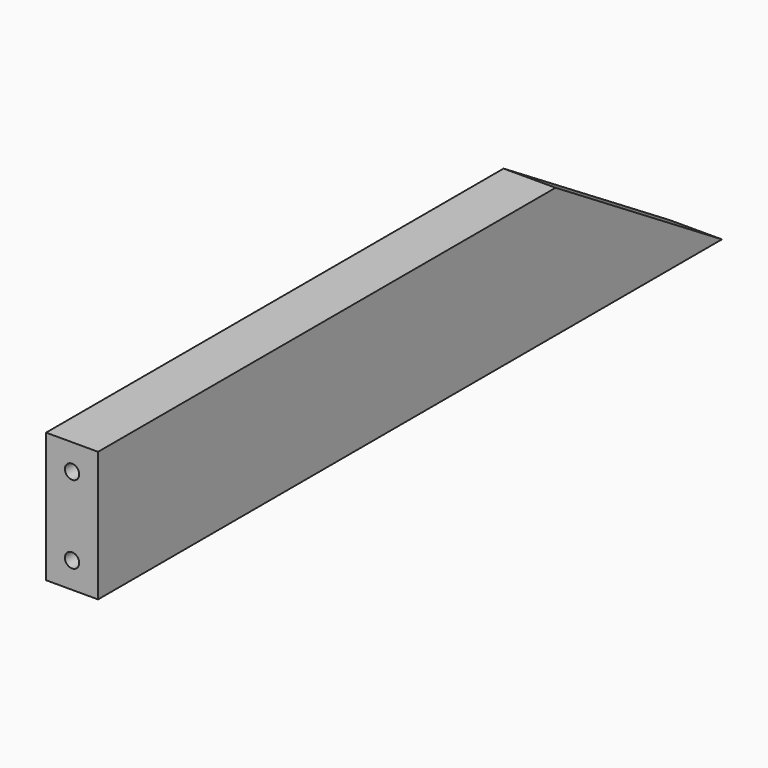
from build123d import *

# Parameters (mm, degrees)
F0_W     = 190.5
F0_H     = 31.75
F1_DEPTH = 12.7
F3_DEPTH = 25.4
F4_R     = 1.75
F5_DEPTH = 12.7
F6_W     = 113.973523
F6_H     = 19.05
F7_DEPTH = 6.35
F8_R     = 3.175


with BuildPart() as f1:
    # F0 (on Right) → F1 (new body)
    with BuildSketch(Plane.YZ):
        with Locations((95.25, 15.875)):
            Rectangle(F0_W, F0_H)
    extrude(amount=F1_DEPTH)

    # F2 (on face) → F3 (cut)
    with BuildSketch(Plane.YZ.offset(12.7)):
        Polygon((139.7, 31.75), (190.5, 0), (190.5, 31.75), align=None)
    extrude(amount=-F3_DEPTH, mode=Mode.SUBTRACT)

    # F4 (on face) → F5 (cut)
    with BuildSketch(Plane.XZ):
        with Locations((6.35, 6.35)):
            Circle(F4_R)
        with Locations((6.35, 25.4)):
            Circle(F4_R)
    extrude(amount=-F5_DEPTH, mode=Mode.SUBTRACT)

    # F6 (on face) → F7 (cut)
    with BuildSketch(Plane(origin=(0, 0, 0), x_dir=(0, -1, 0), z_dir=(-1, 0, 0))):
        with Locations((-76.036761, 15.875)):
            Rectangle(F6_W, F6_H)
    extrude(amount=-F7_DEPTH, mode=Mode.SUBTRACT)

    # F8
    f8_edges = [f1.edges().sort_by_distance(p)[0] for p in [
        (3.175, 133.023523, 25.4),
        (3.175, 19.05, 25.4),
        (3.175, 19.05, 6.35),
        (3.175, 133.023523, 6.35),
    ]]
    fillet(f8_edges, radius=F8_R)


solid = f1.part
